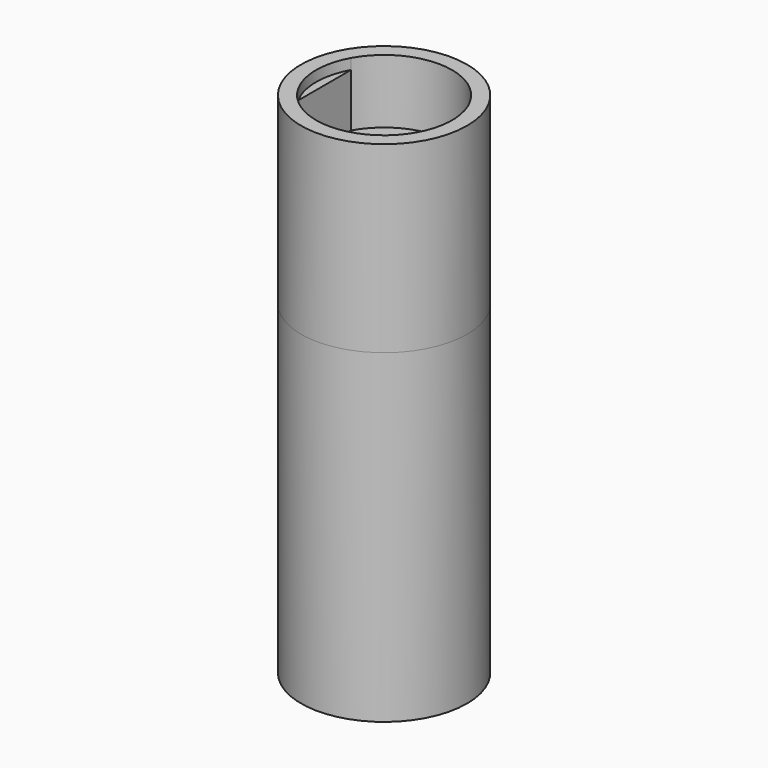
from build123d import *

# Parameters (mm, degrees)
F0_R     = 14.55
F1_DEPTH = 11.2
F2_DEPTH = 9.35
F0_R_2   = 7.975
F3_DEPTH = 21
F4_R     = 14.55
F4_R_2   = 4
F5_DEPTH = 57


with BuildPart() as f1:
    # F0 (on Top) → F1 (new body)
    with BuildSketch(Plane.XY):
        Circle(F0_R)
        with BuildLine():
            ThreePointArc((10.425, -5.7900777197), (0, -11.925), (-10.425, -5.7900777197))
            ThreePointArc((-10.425, -5.7900777197), (-11.925, 0), (-10.425, 5.7900777197))
            ThreePointArc((-10.425, 5.7900777197), (0, 11.925), (10.425, 5.7900777197))
            ThreePointArc((10.425, 5.7900777197), (11.925, 0), (10.425, -5.7900777197))
        make_face(mode=Mode.SUBTRACT)
    extrude(amount=F1_DEPTH)

    # F0 (on Top) → F2 (join)
    with BuildSketch(Plane.XY):
        with BuildLine():
            ThreePointArc((-10.425, 5.7900777197), (-11.925, 0), (-10.425, -5.7900777197))
            Line((-10.425, -5.7900777197), (-10.425, 5.7900777197))
        make_face()
        with BuildLine():
            Line((10.425, 5.7900777197), (10.425, -5.7900777197))
            ThreePointArc((10.425, -5.7900777197), (11.925, 0), (10.425, 5.7900777197))
        make_face()
    extrude(amount=F2_DEPTH)

    # F0 (on Top) → F3 (join)
    with BuildSketch(Plane.XY):
        Circle(F0_R)
        with BuildLine():
            ThreePointArc((10.425, -5.7900777197), (0, -11.925), (-10.425, -5.7900777197))
            ThreePointArc((-10.425, -5.7900777197), (-11.925, 0), (-10.425, 5.7900777197))
            ThreePointArc((-10.425, 5.7900777197), (0, 11.925), (10.425, 5.7900777197))
            ThreePointArc((10.425, 5.7900777197), (11.925, 0), (10.425, -5.7900777197))
        make_face(mode=Mode.SUBTRACT)
        with BuildLine():
            Line((-10.425, 5.7900777197), (-10.425, -5.7900777197))
            ThreePointArc((-10.425, -5.7900777197), (0, -11.925), (10.425, -5.7900777197))
            Line((10.425, -5.7900777197), (10.425, 5.7900777197))
            ThreePointArc((10.425, 5.7900777197), (0, 11.925), (-10.425, 5.7900777197))
        make_face()
        Circle(F0_R_2, mode=Mode.SUBTRACT)
        with BuildLine():
            Line((10.425, 5.7900777197), (10.425, -5.7900777197))
            ThreePointArc((10.425, -5.7900777197), (11.925, 0), (10.425, 5.7900777197))
        make_face()
        with BuildLine():
            ThreePointArc((-10.425, 5.7900777197), (-11.925, 0), (-10.425, -5.7900777197))
            Line((-10.425, -5.7900777197), (-10.425, 5.7900777197))
        make_face()
    extrude(amount=-F3_DEPTH)

    # F4 (on face) → F5 (join)
    with BuildSketch(Plane(origin=(0, 0, -21), x_dir=(1, 0, 0), z_dir=(0, 0, -1))):
        Circle(F4_R)
        Circle(F4_R_2, mode=Mode.SUBTRACT)
    extrude(amount=F5_DEPTH)


solid = f1.part
